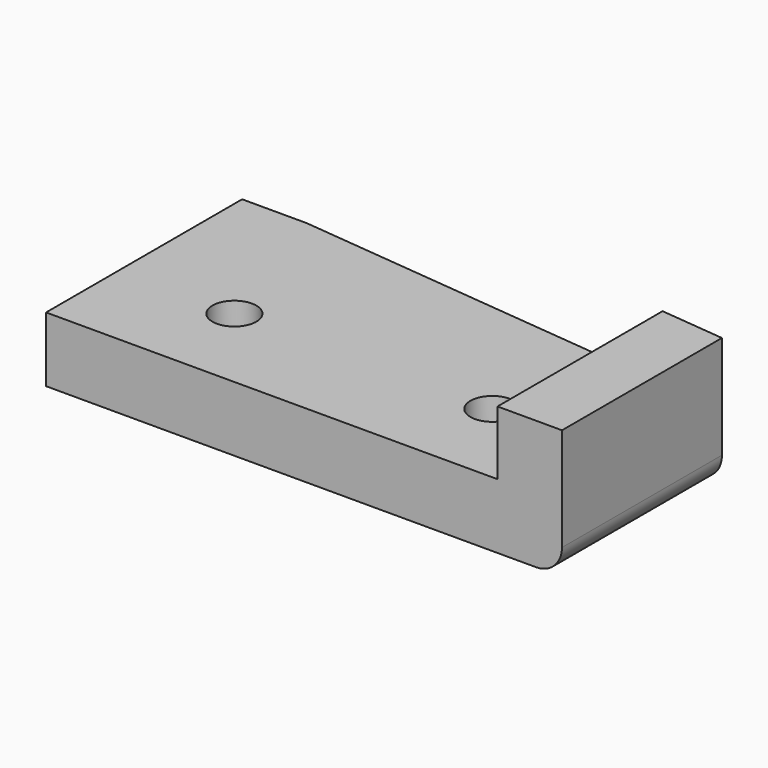
from build123d import *

# Parameters (mm, degrees)
F1_DEPTH       = 19
F3_D           = 3.4
F3_CSINK_D     = 6.72
F3_CSINK_ANGLE = 90
F5_DEPTH       = 25
F6_R           = 2


with BuildPart() as f1:
    # F0 (on Front) → F1 (new body)
    with BuildSketch(Plane.XZ):
        Polygon((0, 5.0361528993), (0, 0), (40, 0), (40, 10), (35, 10), (35, 5.0361528993), align=None)
    extrude(amount=F1_DEPTH)

    # F3 (through all)
    with Locations(Plane(origin=(0, 0, 0), x_dir=(1, 0, 0), z_dir=(0, 0, -1))):
        with Locations((9, 12), (29, 12)):
            CounterSinkHole(F3_D / 2, F3_CSINK_D / 2, counter_sink_angle=F3_CSINK_ANGLE)

    # F4 (on face) → F5 (cut)
    with BuildSketch(Plane(origin=(0, 0, 0), x_dir=(1, 0, 0), z_dir=(0, 0, -1))):
        Polygon((40, 3.5), (5, 0), (40, 0), align=None)
    extrude(amount=-F5_DEPTH, mode=Mode.SUBTRACT)

    # F6
    f6_edges = [f1.edges().sort_by_distance(p)[0] for p in [
        (40, -11.25, 0),
    ]]
    fillet(f6_edges, radius=F6_R)


solid = f1.part
